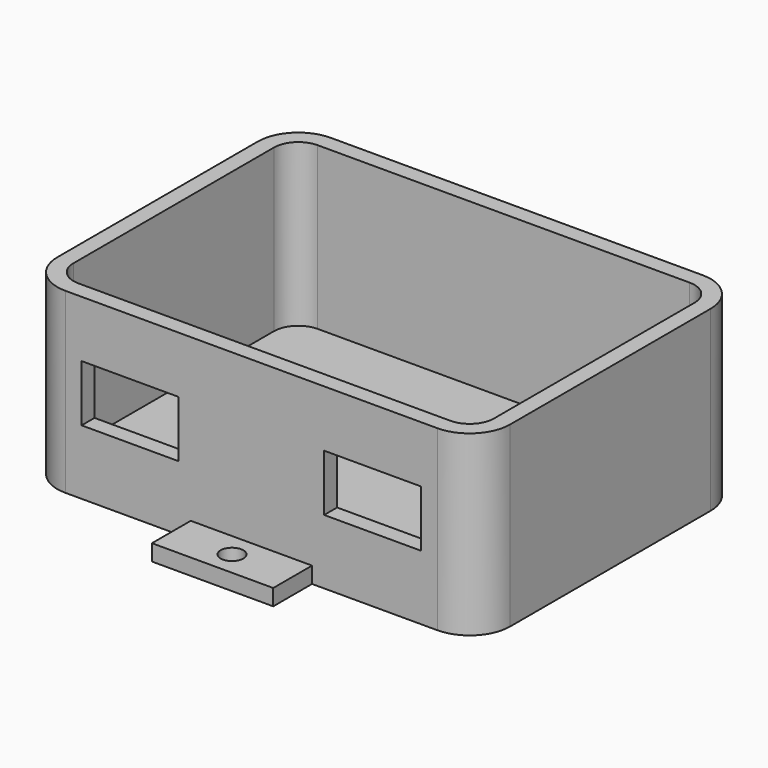
from build123d import *

# Parameters (mm, degrees)
PAD_DEPTH       = 20
THICKNESS_T     = 2
SKETCH001_W     = 15
SKETCH001_H     = 2
PAD001_DEPTH    = 6
SKETCH002_R     = 1.4
POCKET_DEPTH    = 2.001
SKETCH003_W     = 15
SKETCH003_H     = 2
PAD002_DEPTH    = 6
SKETCH004_R     = 1.4
POCKET001_DEPTH = 22.001
SKETCH005_R     = 1.6
POCKET002_DEPTH = 22.001
SKETCH006_W     = 12
SKETCH006_H     = 7
POCKET003_DEPTH = 2


with BuildPart() as part:
    # Sketch → Pad (new body)
    with BuildSketch(Plane.XY):
        with BuildLine():
            Line((0, 37), (46, 37))
            ThreePointArc((49, 34), (48.1213203436, 36.1213203436), (46, 37))
            Line((49, 34), (49, 3))
            ThreePointArc((46, 0), (48.1213203436, 0.8786796564), (49, 3))
            Line((46, 0), (0, 0))
            ThreePointArc((-3, 3), (-2.1213203436, 0.8786796564), (0, 0))
            Line((-3, 3), (-3, 34))
            ThreePointArc((0, 37), (-2.1213203436, 36.1213203436), (-3, 34))
        make_face()
    extrude(amount=PAD_DEPTH)

    # Thickness
    thickness_openings = [part.faces().sort_by_distance(p)[0] for p in [
        (23, 18.5, 20),
    ]]
    offset(amount=THICKNESS_T, openings=thickness_openings, kind=Kind.INTERSECTION)

    # Sketch001 → Pad001 (new body)
    with BuildSketch(Plane(origin=(0, 39, 0), x_dir=(-1, 0, 0), z_dir=(0, 1, 0))):
        with Locations((-23, -1)):
            Rectangle(SKETCH001_W, SKETCH001_H)
    extrude(amount=PAD001_DEPTH)

    # Sketch002 → Pocket (cut, through all)
    with BuildSketch(Plane.XY):
        with Locations((23, 42)):
            Circle(SKETCH002_R)
    extrude(amount=-POCKET_DEPTH, mode=Mode.SUBTRACT)

    # Sketch003 → Pad002 (new body)
    with BuildSketch(Plane.XZ.offset(2)):
        with Locations((23, -1)):
            Rectangle(SKETCH003_W, SKETCH003_H)
    extrude(amount=PAD002_DEPTH)

    # Sketch004 → Pocket001 (cut, through all)
    with BuildSketch(Plane(origin=(0, 0, -2), x_dir=(1, 0, 0), z_dir=(0, 0, -1))):
        with Locations((23, 5)):
            Circle(SKETCH004_R)
    extrude(amount=-POCKET001_DEPTH, mode=Mode.SUBTRACT)

    # Sketch005 → Pocket002 (cut, through all)
    with BuildSketch(Plane(origin=(0, 0, -2), x_dir=(1, 0, 0), z_dir=(0, 0, -1))):
        with Locations((2, -17.739397)):
            Circle(SKETCH005_R)
        with Locations((44, -17.314964)):
            Circle(SKETCH005_R)
    extrude(amount=-POCKET002_DEPTH, mode=Mode.SUBTRACT)

    # Sketch006 → Pocket003 (cut)
    with BuildSketch(Plane.XZ.offset(2)):
        with Locations((8, 9.5)):
            Rectangle(SKETCH006_W, SKETCH006_H)
        with Locations((38, 9.5)):
            Rectangle(SKETCH006_W, SKETCH006_H)
    extrude(amount=-POCKET003_DEPTH, mode=Mode.SUBTRACT)


solid = part.part
